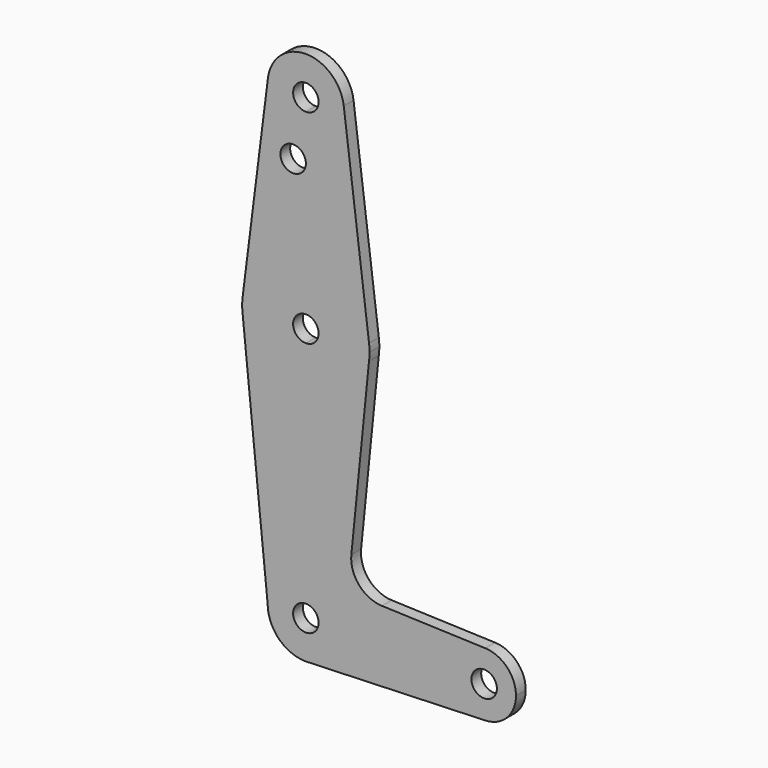
from build123d import *

# Parameters (mm, degrees)
F0_R     = 3.175
F1_DEPTH = 3.048


with BuildPart() as f1:
    # F0 (on Front) → F1 (new body)
    with BuildSketch(Plane.XZ):
        with BuildLine():
            ThreePointArc((-9.4502929642, 115.490625), (-7.14375, 107.9998046905), (0, 104.775))
            ThreePointArc((0, 104.775), (6.7351920908, 107.5648079092), (9.525, 114.3))
            ThreePointArc((9.525, 114.3), (9.5063048942, 114.896483242), (9.4502929642, 115.490625))
            ThreePointArc((9.4502929642, 115.490625), (0, 123.825), (-9.4502929642, 115.490625))
        make_face()
        with BuildLine():
            ThreePointArc((3.175, 114.3), (2.2450640303, 112.0549359697), (0, 111.125))
            ThreePointArc((0, 111.125), (-2.2450640303, 116.5450640303), (3.175, 114.3))
        make_face(mode=Mode.SUBTRACT)
        with BuildLine():
            ThreePointArc((9.525, 114.3), (6.7351920908, 107.5648079092), (0, 104.775))
            Line((0, 104.775), (0, 99.7698307037))
            Line((0, 99.7698307037), (0, 79.375))
            ThreePointArc((0, 79.375), (10.5003255158, 75.40625), (15.7504882737, 65.484375))
            Line((15.7504882737, 65.484375), (9.4502929642, 115.490625))
            ThreePointArc((9.4502929642, 115.490625), (9.5063048942, 114.896483242), (9.525, 114.3))
        make_face()
        with BuildLine():
            Line((0, 99.7698307037), (0, 104.775))
            ThreePointArc((0, 104.775), (-7.14375, 107.9998046905), (-9.4502929642, 115.490625))
            Line((-9.4502929642, 115.490625), (-15.7504882737, 65.484375))
            ThreePointArc((-15.7504882737, 65.484375), (-10.5003255158, 75.40625), (0, 79.375))
            Line((0, 79.375), (0, 99.7698307037))
        make_face()
        with Locations((-3.175, 99.7698307037)):
            Circle(F0_R, mode=Mode.SUBTRACT)
        with BuildLine():
            ThreePointArc((15.7504882737, 65.484375), (10.5003255158, 75.40625), (0, 79.375))
            Line((0, 79.375), (0, 66.675))
            ThreePointArc((0, 66.675), (2.2450640303, 65.7450640303), (3.175, 63.5))
            ThreePointArc((3.175, 63.5), (2.2450640303, 61.2549359697), (0, 60.325))
            Line((0, 60.325), (0, 47.625))
            ThreePointArc((0, 47.625), (10.5003255158, 51.59375), (15.7504882737, 61.515625))
            ThreePointArc((15.7504882737, 61.515625), (15.8438414904, 62.5058612634), (15.875, 63.5))
            ThreePointArc((15.875, 63.5), (15.8438414904, 64.4941387366), (15.7504882737, 65.484375))
        make_face()
        with BuildLine():
            Line((0, 66.675), (0, 79.375))
            ThreePointArc((0, 79.375), (-10.5003255158, 75.40625), (-15.7504882737, 65.484375))
            ThreePointArc((-15.7504882737, 65.484375), (-15.875, 63.5), (-15.7504882737, 61.515625))
            ThreePointArc((-15.7504882737, 61.515625), (-10.5003255158, 51.59375), (0, 47.625))
            Line((0, 47.625), (0, 60.325))
            ThreePointArc((0, 60.325), (-3.175, 63.5), (0, 66.675))
        make_face()
        with BuildLine():
            ThreePointArc((0, 47.625), (-10.5003255158, 51.59375), (-15.7504882737, 61.515625))
            Line((-15.7504882737, 61.515625), (-9.525, 0))
            ThreePointArc((-9.525, 0), (-6.7351920908, 6.7351920908), (0, 9.525))
            Line((0, 9.525), (0, 47.625))
        make_face()
        with BuildLine():
            ThreePointArc((15.7504882737, 61.515625), (10.5003255158, 51.59375), (0, 47.625))
            Line((0, 47.625), (0, 9.525))
            ThreePointArc((0, 9.525), (6.7351920908, 6.7351920908), (9.525, 0))
            Line((9.525, 0), (36.5125, 0))
            ThreePointArc((36.5125, 0), (38.9380895153, 5.7116327839), (44.7324052746, 7.9324746146))
            Line((44.7324052746, 7.9324746146), (18.966834309, 8.849758753))
            ThreePointArc((18.966834309, 8.849758753), (13.2599196073, 11.5672763786), (11.3392787081, 17.5893122465))
            Line((11.3392787081, 17.5893122465), (15.7504882737, 61.515625))
        make_face()
        with BuildLine():
            ThreePointArc((0, 9.525), (-6.7351920908, 6.7351920908), (-9.525, 0))
            ThreePointArc((-9.525, 0), (-6.7351920908, -6.7351920908), (0, -9.525))
            Line((0, -9.525), (0.6773435479, -9.500885786))
            ThreePointArc((0.6773435479, -9.500885786), (6.9705567315, -6.4912990883), (9.525, 0))
            Line((9.525, 0), (3.175, 0))
            ThreePointArc((3.175, 0), (-2.2450640303, -2.2450640303), (0, 3.175))
            Line((0, 3.175), (0, 9.525))
        make_face()
        with BuildLine():
            Line((0.6773435479, -9.500885786), (0, -9.525))
            ThreePointArc((0, -9.525), (0.3388863295, -9.5189695375), (0.6773435479, -9.500885786))
        make_face()
        with BuildLine():
            Line((36.5125, 0), (9.525, 0))
            ThreePointArc((9.525, 0), (6.9705567315, -6.4912990883), (0.6773435479, -9.500885786))
            Line((0.6773435479, -9.500885786), (44.7324052746, -7.9324746146))
            ThreePointArc((44.7324052746, -7.9324746146), (38.9380895153, -5.7116327839), (36.5125, 0))
        make_face()
        with BuildLine():
            ThreePointArc((44.7324052746, 7.9324746146), (38.9380895153, 5.7116327839), (36.5125, 0))
            ThreePointArc((36.5125, 0), (38.9380895153, -5.7116327839), (44.7324052746, -7.9324746146))
            ThreePointArc((44.7324052746, -7.9324746146), (50.1616327839, -5.5119104847), (52.3875, 0))
            ThreePointArc((52.3875, 0), (50.1616327839, 5.5119104847), (44.7324052746, 7.9324746146))
        make_face()
        with BuildLine():
            ThreePointArc((47.625, 0), (44.45, -3.175), (41.275, 0))
            ThreePointArc((41.275, 0), (44.45, 3.175), (47.625, 0))
        make_face(mode=Mode.SUBTRACT)
        with BuildLine():
            ThreePointArc((9.525, 0), (6.7351920908, 6.7351920908), (0, 9.525))
            Line((0, 9.525), (0, 3.175))
            ThreePointArc((0, 3.175), (2.2450640303, 2.2450640303), (3.175, 0))
            Line((3.175, 0), (9.525, 0))
        make_face()
    extrude(amount=F1_DEPTH)


solid = f1.part
